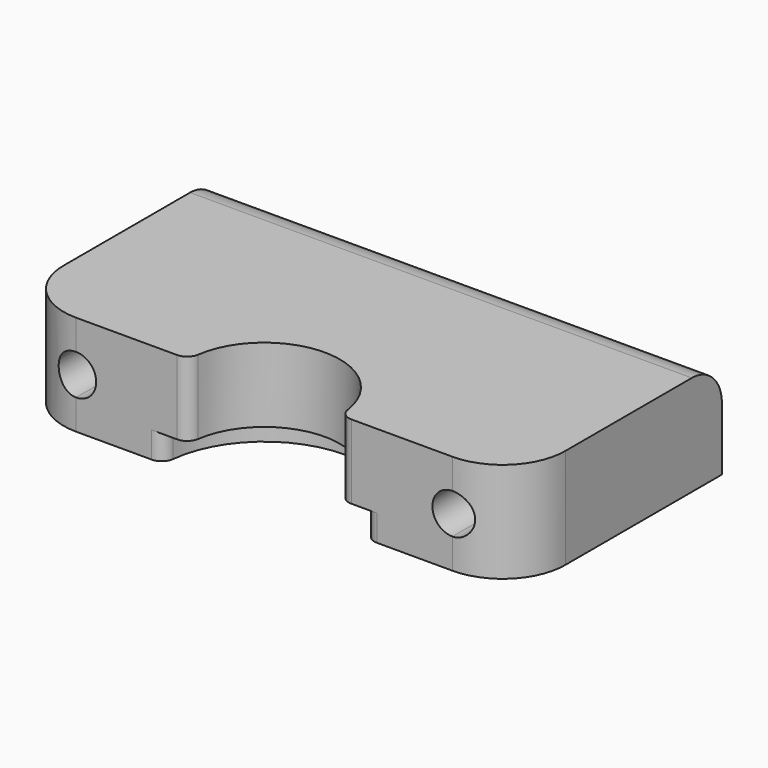
from build123d import *

# Parameters (mm, degrees)
F1_DEPTH  = 8
F2_DEPTH  = 5.92
F3_R      = 3
F4_R      = 5
F6_DEPTH  = 20.601
F8_DEPTH  = 20.6010001
F9_R      = 1
F11_DEPTH = 1


with BuildPart() as f1:
    # F0 (on Top) → F1 (new body)
    with BuildSketch(Plane.XY):
        with BuildLine():
            Line((-20, 20.6), (-20, 0))
            Line((-20, 0), (-8.03, 0))
            ThreePointArc((-8.03, 0), (0, 8.03), (8.03, 0))
            Line((8.03, 0), (20, 0))
            Line((20, 0), (20, 20.6))
            Line((20, 20.6), (-20, 20.6))
        make_face()
    extrude(amount=-F1_DEPTH)

    # F0 (on Top) → F2 (join)
    with BuildSketch(Plane.XY):
        with BuildLine():
            ThreePointArc((8.03, 0), (0, 8.03), (-8.03, 0))
            Line((-8.03, 0), (-6.02, 0))
            ThreePointArc((-6.02, 0), (0, 6.02), (6.02, 0))
            Line((6.02, 0), (8.03, 0))
        make_face()
    extrude(amount=-F2_DEPTH)

    # F3
    f3_edges = [f1.edges().sort_by_distance(p)[0] for p in [
        (0, 20.6, 0),
    ]]
    fillet(f3_edges, radius=F3_R)

    # F4
    f4_edges = [f1.edges().sort_by_distance(p)[0] for p in [
        (-20, 0, -4),
        (20, 0, -4),
    ]]
    fillet(f4_edges, radius=F4_R)

    # F5 (on face) → F6 (cut, through all)
    with BuildSketch(Plane.XZ):
        with BuildLine():
            Line((-15, -5.6), (-15, -2.4))
            ThreePointArc((-15, -2.4), (-16.6, -4), (-15, -5.6))
        make_face()
        with BuildLine():
            ThreePointArc((-15, -5.6), (-13.8686291501, -5.1313708499), (-13.4, -4))
            ThreePointArc((-13.4, -4), (-13.8686291501, -2.8686291501), (-15, -2.4))
            Line((-15, -2.4), (-15, -5.6))
        make_face()
    extrude(amount=-F6_DEPTH, mode=Mode.SUBTRACT)

    # F7 (on face) → F8 (cut, through all)
    with BuildSketch(Plane.XZ):
        with BuildLine():
            Line((15, -5.6), (15, -2.4))
            ThreePointArc((15, -2.4), (13.4, -4), (15, -5.6))
        make_face()
        with BuildLine():
            ThreePointArc((15, -5.6), (16.1313708499, -5.1313708499), (16.6, -4))
            ThreePointArc((16.6, -4), (16.1313708499, -2.8686291501), (15, -2.4))
            Line((15, -2.4), (15, -5.6))
        make_face()
    extrude(amount=-F8_DEPTH, mode=Mode.SUBTRACT)

    # F9
    f9_edges = [f1.edges().sort_by_distance(p)[0] for p in [
        (-8.03, 0, -6.96),
        (-6.02, 0, -2.96),
        (6.02, 0, -2.96),
        (8.03, 0, -6.96),
    ]]
    fillet(f9_edges, radius=F9_R)

    # F10 (on face) → F11 (cut)
    with BuildSketch(Plane(origin=(0, 20.6, 0), x_dir=(-1, 0, 0), z_dir=(0, 1, 0))):
        with BuildLine():
            Line((-13.7510004003, -3), (-12.0657198498, -3))
            ThreePointArc((-12.0657198498, -3), (-15, -0.9), (-17.9342801502, -3))
            Line((-17.9342801502, -3), (-16.2489995997, -3))
            ThreePointArc((-16.2489995997, -3), (-16.4422205102, -4.692820323), (-15, -5.6))
            ThreePointArc((-15, -5.6), (-13.5577794898, -4.692820323), (-13.7510004003, -3))
        make_face()
        with BuildLine():
            ThreePointArc((-17.9342801502, -3), (-15.5068192648, -7.0582894292), (-11.9, -4))
            ThreePointArc((-11.9, -4), (-11.9417105708, -3.4931807352), (-12.0657198498, -3))
            Line((-12.0657198498, -3), (-13.7510004003, -3))
            ThreePointArc((-13.7510004003, -3), (-13.5577794898, -4.692820323), (-15, -5.6))
            ThreePointArc((-15, -5.6), (-16.4422205102, -4.692820323), (-16.2489995997, -3))
            Line((-16.2489995997, -3), (-17.9342801502, -3))
        make_face()
        with BuildLine():
            ThreePointArc((17.9342801502, -3), (15, -0.9), (12.0657198498, -3))
            Line((12.0657198498, -3), (13.7510004003, -3))
            ThreePointArc((13.7510004003, -3), (13.5577794898, -4.692820323), (15, -5.6))
            ThreePointArc((15, -5.6), (16.4422205102, -4.692820323), (16.2489995997, -3))
            Line((16.2489995997, -3), (17.9342801502, -3))
        make_face()
        with BuildLine():
            Line((13.7510004003, -3), (12.0657198498, -3))
            ThreePointArc((12.0657198498, -3), (14.4931807352, -7.0582894292), (18.1, -4))
            ThreePointArc((18.1, -4), (18.0582894292, -3.4931807352), (17.9342801502, -3))
            Line((17.9342801502, -3), (16.2489995997, -3))
            ThreePointArc((16.2489995997, -3), (16.4422205102, -4.692820323), (15, -5.6))
            ThreePointArc((15, -5.6), (13.5577794898, -4.692820323), (13.7510004003, -3))
        make_face()
    extrude(amount=-F11_DEPTH, mode=Mode.SUBTRACT)


solid = f1.part
